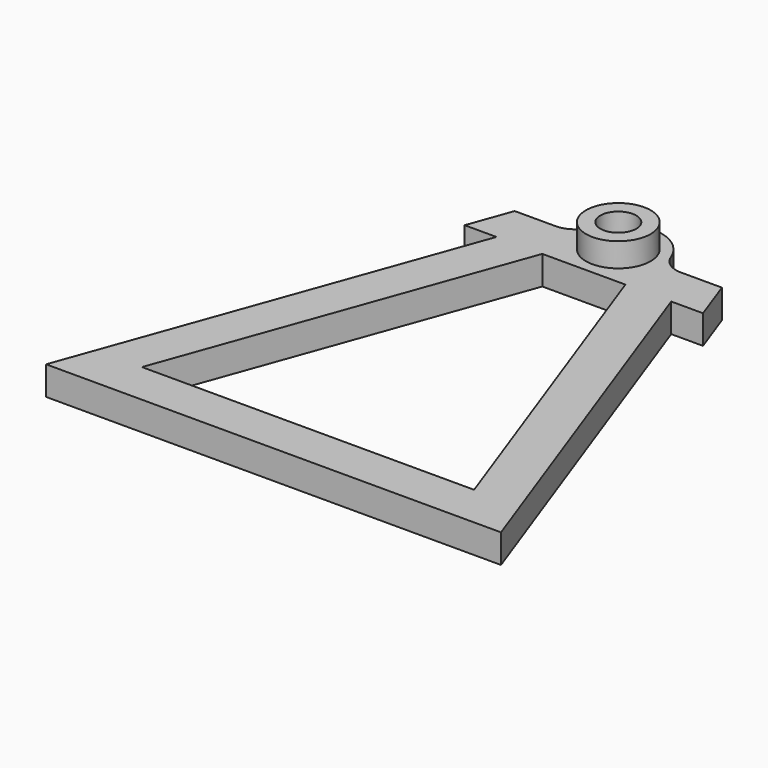
from build123d import *

# Parameters (mm, degrees)
F1_DEPTH = 0.6096
F2_R     = 0.381
F3_DEPTH = 25.4
F4_R     = 0.508
F5_R     = 0.6858
F5_R_2   = 0.381
F6_DEPTH = 0.508


with BuildPart() as f1:
    # F0 (on Top) → F1 (new body)
    with BuildSketch(Plane.XY):
        with BuildLine():
            Line((-1.8542, 8.2296), (-4.826, 0))
            Line((-4.826, 0), (0, 0))
            Line((0, 0), (4.826, 0))
            Line((4.826, 0), (1.8542, 8.2296))
            Line((1.8542, 8.2296), (2.528635, 8.2296))
            Line((2.528635, 8.2296), (2.198435, 9.144))
            Line((2.198435, 9.144), (1.524, 9.144))
            Line((1.524, 9.144), (0.9144, 9.144))
            ThreePointArc((0.9144, 9.144), (0, 10.0584), (-0.9144, 9.144))
            Line((-0.9144, 9.144), (-1.524, 9.144))
            Line((-1.524, 9.144), (-2.198435, 9.144))
            Line((-2.198435, 9.144), (-2.528635, 8.2296))
            Line((-2.528635, 8.2296), (-1.8542, 8.2296))
        make_face()
        Polygon((3.523607, 0.9144), (0, 0.9144), (-3.523607, 0.9144), (-0.882007, 8.2296), (0, 8.2296), (0.882007, 8.2296), align=None, mode=Mode.SUBTRACT)
    extrude(amount=F1_DEPTH)

    # F2 (on face) → F3 (cut)
    with BuildSketch(Plane.XY.offset(0.6096)):
        with Locations((0, 9.144)):
            Circle(F2_R)
    extrude(amount=-F3_DEPTH, mode=Mode.SUBTRACT)

    # F4
    f4_edges = [f1.edges().sort_by_distance(p)[0] for p in [
        (0.9144, 9.144, 0.3048),
        (-0.9144, 9.144, 0.3048),
    ]]
    fillet(f4_edges, radius=F4_R)

    # F5 (on face) → F6 (join)
    with BuildSketch(Plane.XY.offset(0.6096)):
        with Locations((0, 9.144)):
            Circle(F5_R)
        with Locations((0, 9.144)):
            Circle(F5_R_2, mode=Mode.SUBTRACT)
    extrude(amount=F6_DEPTH)


solid = f1.part
